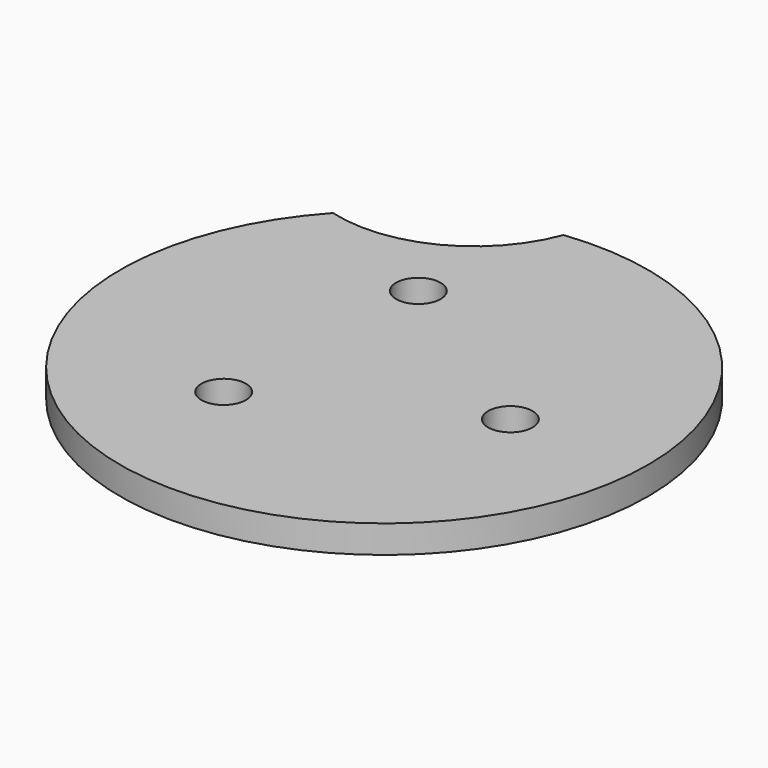
from build123d import *

# Parameters (mm, degrees)
F0_R     = 2.54
F1_DEPTH = 3.175


with BuildPart() as f1:
    # F0 (on Top) → F1 (new body)
    with BuildSketch(Plane.XY):
        with BuildLine():
            ThreePointArc((-3.467769, 29.962493), (-10.980622, 21.569184), (-22.187688, 20.432398))
            ThreePointArc((-22.187688, 20.432398), (13.684162, -26.879734), (-3.467769, 29.962493))
        make_face()
        with Locations((-8.218226, -12.64535)):
            Circle(F0_R, mode=Mode.SUBTRACT)
        with Locations((15.060307, -0.794518)):
            Circle(F0_R, mode=Mode.SUBTRACT)
        with Locations((-6.842081, 13.439867)):
            Circle(F0_R, mode=Mode.SUBTRACT)
    extrude(amount=F1_DEPTH)


solid = f1.part
